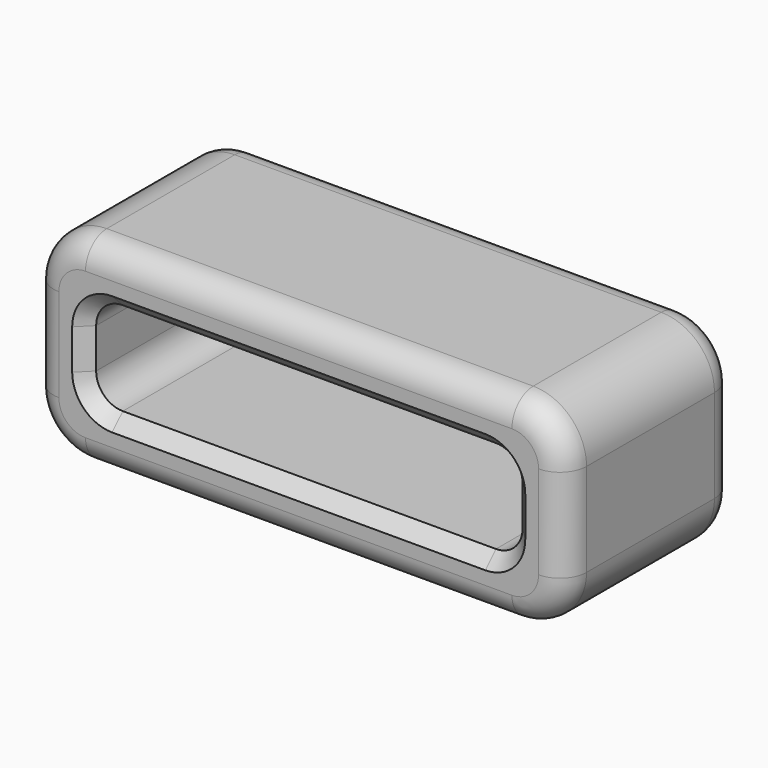
from build123d import *

# Parameters (mm, degrees)
F0_W     = 20
F0_H     = 8
F1_DEPTH = 7.5
F2_T     = -2
F3_DEPTH = 25
F4_R     = 2
F5_R     = 1
F6_R     = 1
F7_SIZE  = 0.5
F9_DEPTH = 1


with BuildPart() as f1:
    # F0 (on Top) → F1 (new body)
    with BuildSketch(Plane.XY):
        with Locations((15.5013518035, 1.3572655581)):
            Rectangle(F0_W, F0_H)
    extrude(amount=F1_DEPTH)

    # F2
    f2_openings = [f1.faces().sort_by_distance(p)[0] for p in [
        (15.501352, -2.642734, 3.75),
    ]]
    offset(amount=F2_T, openings=f2_openings)

    # F3 (cut): a face of the model
    f3_faces = [f1.faces().sort_by_distance(p)[0] for p in [
        (15.5013518035, 3.3572655581, 3.75),
    ]]
    extrude(f3_faces, amount=-F3_DEPTH, mode=Mode.SUBTRACT)

    # F4
    f4_edges = [f1.edges().sort_by_distance(p)[0] for p in [
        (25.501352, 1.357266, 7.5),
        (25.501352, 1.357266, 0),
        (5.501352, 1.357266, 7.5),
        (5.501352, 1.357266, 0),
    ]]
    fillet(f4_edges, radius=F4_R)

    # F5
    f5_edges = [f1.edges().sort_by_distance(p)[0] for p in [
        (7.501352, 1.357266, 5.5),
        (7.501352, 1.357266, 2),
        (23.501352, 1.357266, 5.5),
        (23.501352, 1.357266, 2),
    ]]
    fillet(f5_edges, radius=F5_R)

    # F6
    f6_edges = [f1.edges().sort_by_distance(p)[0] for p in [
        (15.501352, -2.642734, 0),
        (15.501352, 5.357266, 0),
    ]]
    fillet(f6_edges, radius=F6_R)

    # F7
    f7_edges = [f1.edges().sort_by_distance(p)[0] for p in [
        (15.501352, -2.642734, 5.5),
        (15.501352, 5.357266, 5.5),
    ]]
    chamfer(f7_edges, length=F7_SIZE)

    # F8 (on face) → F9 (join)
    with BuildSketch(Plane.XY.offset(7.5)):
        Polygon((9.5939766616, 4.3572655581), (8.2856733352, 4.3572655581), (8.2856733352, -1.6427344419), (9.5939766616, -1.6427344419), (9.5939766616, 1.0383471381), (10.6051471084, -1.6427344419), (12.1620288119, -1.6427344419), (10.7613857836, 1.5246823896), (12.1620288119, 4.3572655581), (10.5070443824, 4.3572655581), (9.5939766616, 2.1014690865), align=None)
        Polygon((16.4463743567, 4.3572655581), (12.1620288119, 4.3572655581), (12.1620288119, -1.6427344419), (16.4463743567, -1.6427344419), (16.4463743567, 1.214308897), (14.3119534478, 1.214308897), (14.3119534478, 0.6480877637), (15.4404239729, 0.6480877637), (15.4404239729, 0), (13.5471438989, 0), (13.5471438989, 3.0533354729), (15.4435969889, 3.0533354729), (15.4435969889, 2.0766169764), (16.4463743567, 2.0766169764), align=None)
    extrude(amount=-F9_DEPTH)


solid = f1.part
